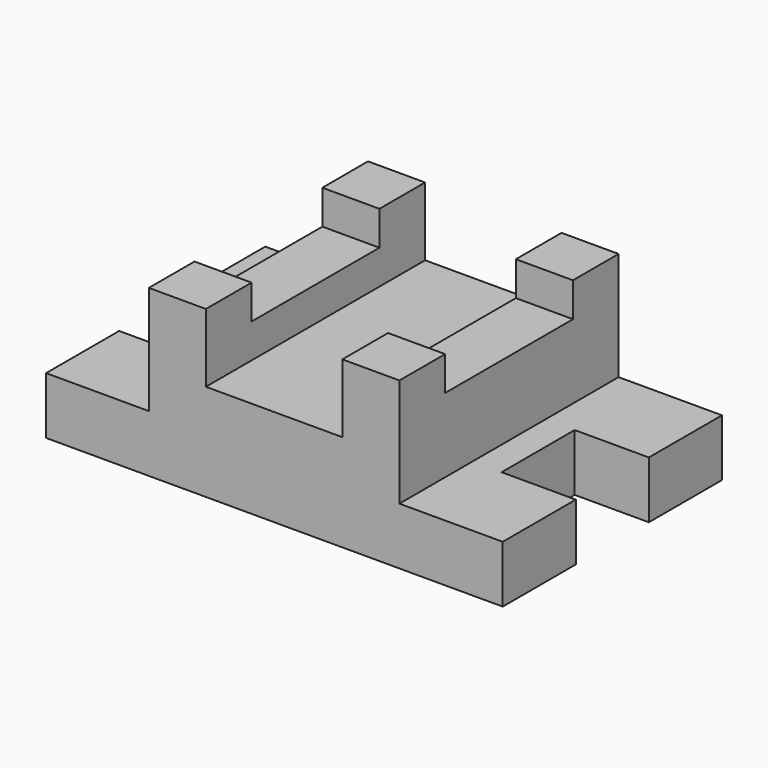
from build123d import *

# Parameters (mm, degrees)
F1_DEPTH = 31.75
F0_W     = 31.75
F0_H     = 31.75
F2_DEPTH = 92.075
F3_DEPTH = 53.975
F0_H_2   = 88.9
F4_DEPTH = 73.025


with BuildPart() as f1:
    # F0 (on Top) → F1 (new body)
    with BuildSketch(Plane.XY):
        Polygon((-69.85, 44.45), (-69.85, 76.2), (-127, 76.2), (-127, 25.4), (-85.725, 25.4), (-85.725, -25.4), (-127, -25.4), (-127, -76.2), (-69.85, -76.2), (-69.85, -44.45), align=None)
    extrude(amount=F1_DEPTH)

    # F0 (on Top) → F2 (join)
    with BuildSketch(Plane.XY):
        with Locations((-53.975, 60.325)):
            Rectangle(F0_W, F0_H)
        with Locations((-53.975, -60.325)):
            Rectangle(F0_W, F0_H)
    extrude(amount=F2_DEPTH)



with BuildPart() as f1b:
    # F0 (on Top) → F1, piece 2 (new body)
    with BuildSketch(Plane.XY):
        Polygon((127, 25.4), (127, 76.2), (69.5408051014, 76.2), (69.5408051014, 44.45), (69.5408051014, -44.45), (69.5408051014, -76.2), (127, -76.2), (127, -25.4), (85.725, -25.4), (85.725, 25.4), align=None)
    extrude(amount=F1_DEPTH)

    # F0 (on Top) → F2, piece 2 (join)
    with BuildSketch(Plane.XY):
        with Locations((53.6658051014, 60.325)):
            Rectangle(F0_W, F0_H)
        with Locations((53.6658051014, -60.325)):
            Rectangle(F0_W, F0_H)
    extrude(amount=F2_DEPTH)


with BuildPart() as f1_1:
    add(f1.part)

    add(f1b.part)  # F3 merges F1b
    # F0 (on Top) → F3 (join)
    with BuildSketch(Plane.XY):
        Polygon((37.7908051014, 44.45), (37.7908051014, 76.2), (-38.1, 76.2), (-38.1, 44.45), (-38.1, -44.45), (-38.1, -76.2), (37.7908051014, -76.2), (37.7908051014, -44.45), align=None)
    extrude(amount=F3_DEPTH)

    # F0 (on Top) → F4 (join)
    with BuildSketch(Plane.XY):
        with Locations((-53.975, 0)):
            Rectangle(F0_W, F0_H_2)
        with Locations((53.6658051014, 0)):
            Rectangle(F0_W, F0_H_2)
    extrude(amount=F4_DEPTH)


solid = f1_1.part
